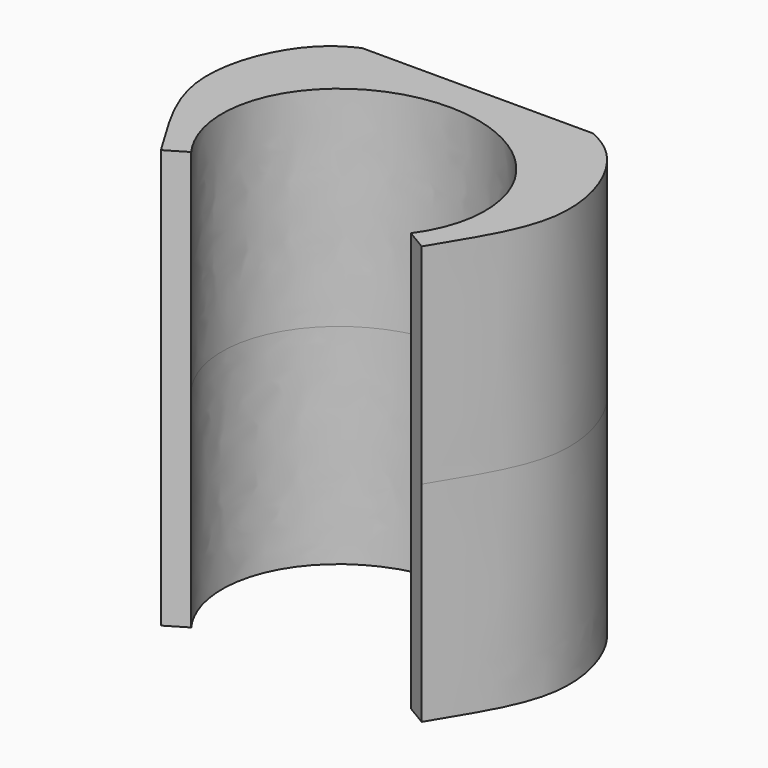
from build123d import *

# Parameters (mm, degrees)
F1_DEPTH      = 17.5
F3_DEPTH      = 15.1287347934
F3_DEPTH_BACK = 15.1287347934
F5_DEPTH      = 15.1287347934
F5_DEPTH_BACK = 15.1287347934


with BuildPart() as f1:
    # F0 (on Top) → F1 (new body, symmetric)
    with BuildSketch(Plane.XY):
        with BuildLine():
            add(Edge.make_bspline(
                [(9.1868111987, -5.5), (20.415135997, 10), (0, 10), (-20.415135997, 10), (-9.1868111987, -5.5)],
                knots=[2.5592284157, 2.5592284157, 2.5592284157, 4.7123889804, 4.7123889804, 6.865549545, 6.865549545, 6.865549545], degree=2, weights=[1, 0.474341649, 1, 0.474341649, 1]))
            Line((9.1868111987, -5.5), (10.9027922676, -6.5273309939))
            add(Edge.make_bspline(
                [(10.9027922676, -6.5273309939), (12.7389340253, -3.3890525439), (16.8731179435, 2.3245435176), (12.5821699396, 13.0625810745), (4.2594516513, 14.0193672421), (1.2600043773, 19.0299124435), (0, 22)],
                knots=[0, 0, 0, 0, 0.2691946522, 0.5268109314, 0.7543956387, 1, 1, 1, 1], degree=3))
            add(Edge.make_bspline(
                [(-10.9027922676, -6.5273309939), (-12.7389340253, -3.3890525439), (-16.8731179435, 2.3245435176), (-12.5821699396, 13.0625810745), (-4.2594516513, 14.0193672421), (-1.2600043773, 19.0299124435), (0, 22)],
                knots=[0, 0, 0, 0, 0.2691946522, 0.5268109314, 0.7543956387, 1, 1, 1, 1], degree=3))
            Line((-10.9027922676, -6.5273309939), (-9.1868111987, -5.5))
        make_face()
    extrude(amount=F1_DEPTH, both=True)

    # F2 (on Right) → F3 (cut, two sides)
    with BuildSketch(Plane.YZ) as f3_sk:
        with BuildLine():
            Line((22, -17.5), (22, 17.5))
            add(Edge.make_bspline(
                [(12.9458382726, 17.5), (12.9847525399, 17.5), (13.3425955297, 17.5), (15.3706202534, 17.5), (18.3497598952, 17.5), (21.0099708145, 17.5), (22, 17.5)],
                knots=[19.4731692664, 19.4731692664, 19.4731692664, 19.4731692664, 19.5899120684, 20.546698236, 25.5572434374, 28.5273309939, 28.5273309939, 28.5273309939, 28.5273309939], degree=3))
            add(Edge.make_bspline(
                [(20.4889792066, -17.5), (21.3069921459, -13.572259105), (21.5040260738, -4.998294653), (21.0682047604, 10.0934973141), (17.8072525963, 14.338356594), (14.1858932816, 16.3451904901), (12.9458382726, 17.5)],
                knots=[0, 0, 0, 0, 0.2890890669, 0.5956944703, 0.784981897, 0.9342249031, 0.9342249031, 0.9342249031, 0.9342249031], degree=3))
            add(Edge.make_bspline(
                [(20.4889792066, -17.5), (20.9926528044, -17.5), (21.4963264022, -17.5), (22, -17.5)],
                knots=[27.0163102004, 27.0163102004, 27.0163102004, 27.0163102004, 28.5273309939, 28.5273309939, 28.5273309939, 28.5273309939], degree=3))
        make_face()
    extrude(amount=F3_DEPTH, mode=Mode.SUBTRACT)
    extrude(f3_sk.sketch, amount=-F3_DEPTH_BACK, mode=Mode.SUBTRACT)

    # F4 (on Right) → F5 (cut, two sides)
    with BuildSketch(Plane.YZ) as f5_sk:
        with BuildLine():
            add(Edge.make_bspline(
                [(20.4889792065, -17.5), (20.0026236189, -17.5), (17.8460862974, -17.5), (15.3706202534, -17.5), (12.3606494389, -17.5), (11.0208603582, -17.5), (10, -17.5)],
                knots=[1.5110207935, 1.5110207935, 1.5110207935, 1.5110207935, 2.9700875565, 7.9806327579, 8.9374189255, 12, 12, 12, 12], degree=3))
            add(Edge.make_bspline(
                [(20.4889792065, -17.5), (18.7860671315, -16.1256874953), (16.0650931023, -13.9297616527), (13.7700201304, -13.2466113293), (12.5050464748, -13.6972839369), (10.901211893, -16.3099588504), (10.2649782675, -17.1500988896), (10, -17.5)],
                knots=[0, 0, 0, 0, 0.3061167398, 0.4891243131, 0.6260717542, 0.844266548, 1, 1, 1, 1], degree=3))
        make_face()
    extrude(amount=-F5_DEPTH, mode=Mode.SUBTRACT)
    extrude(f5_sk.sketch, amount=F5_DEPTH_BACK, mode=Mode.SUBTRACT)


solid = f1.part
